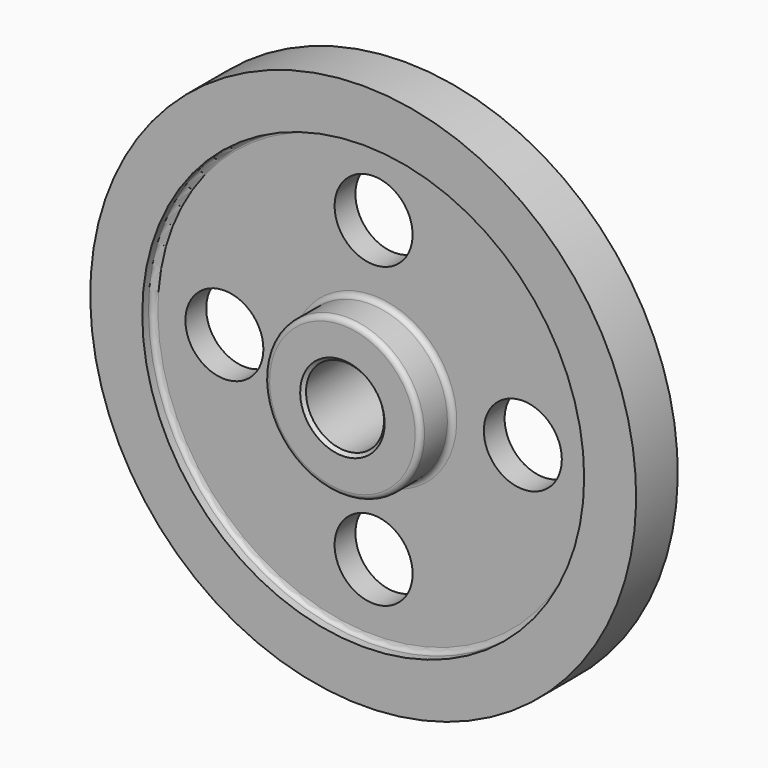
from build123d import *

# Parameters (mm, degrees)
F0_W     = 25.4
F0_H     = 9.525
F2_R     = 19.05
F3_DEPTH = 25.4
F4_R     = 2.54
F5_SIZE  = 1.5875


with BuildPart() as f1:
    # F0 (on Right) → F1 (revolve)
    with BuildSketch(Plane.YZ):
        Polygon((-25.4, 19.05), (0, 19.05), (0, 28.575), (0, 38.1), (-6.35, 38.1), (-25.4, 38.1), align=None)
        with Locations((12.7, 23.8125)):
            Rectangle(F0_W, F0_H)
        Polygon((0, 38.1), (0, 28.575), (25.4, 28.575), (25.4, 38.1), (6.35, 38.1), align=None)
        Polygon((-6.35, 38.1), (0, 38.1), (0, 73.025), (0, 107.95), (-6.35, 107.95), align=None)
        Polygon((0, 73.025), (0, 38.1), (6.35, 38.1), (6.35, 107.95), (0, 107.95), align=None)
        Polygon((-6.35, 107.95), (0, 107.95), (6.35, 107.95), (12.7, 107.95), (12.7, 133.35), (-12.7, 133.35), (-12.7, 107.95), align=None)
    revolve(axis=Axis((0, 29.0322, 0), (0, 1, 0)))

    # F2 (on face) → F3 (cut)
    with BuildSketch(Plane.XZ.offset(6.35)):
        with BuildLine():
            ThreePointArc((19.05, 72.898), (-13.4703841816, 86.3683841816), (0, 53.848))
            ThreePointArc((0, 53.848), (13.4703841816, 59.4276158184), (19.05, 72.898))
        make_face()
        with Locations((72.898, 0)):
            Circle(F2_R)
        with Locations((0, -72.898)):
            Circle(F2_R)
        with Locations((-72.898, 0)):
            Circle(F2_R)
    extrude(amount=-F3_DEPTH, mode=Mode.SUBTRACT)

    # F4
    f4_edges = [f1.edges().sort_by_distance(p)[0] for p in [
        (0, -6.35, -38.1),
        (0, -25.4, -38.1),
        (0, -15.875, 38.1),
        (0, -6.35, -107.95),
        (0, 25.4, -38.1),
        (0, 6.35, -38.1),
        (0, 15.875, 38.1),
        (0, 12.7, -107.95),
    ]]
    fillet(f4_edges, radius=F4_R)

    # F5
    f5_edges = [f1.edges().sort_by_distance(p)[0] for p in [
        (0, 25.4, -19.05),
        (0, -25.4, -19.05),
    ]]
    chamfer(f5_edges, length=F5_SIZE)


solid = f1.part
